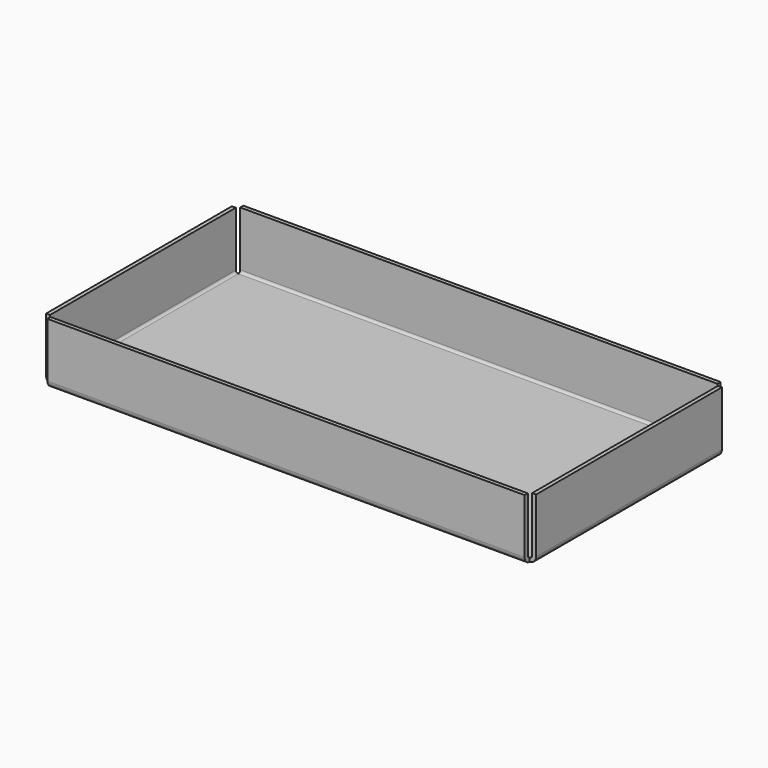
from build123d import *

# Parameters (mm, degrees)
F0_W     = 152.4
F0_H     = 76.2
F1_DEPTH = 19.05
F2_T     = -1.21412
F3_W     = 1.9790156
F3_H     = 1.9790156
F4_DEPTH = 19.051
F5_R     = 0.7648956
F6_R     = 1.9790156


with BuildPart() as f1:
    # F0 (on Top) → F1 (new body)
    with BuildSketch(Plane.XY):
        Rectangle(F0_W, F0_H)
    extrude(amount=F1_DEPTH)

    # F2
    f2_openings = [f1.faces().sort_by_distance(p)[0] for p in [
        (0, 0, 19.05),
    ]]
    offset(amount=F2_T, openings=f2_openings)

    # F3 (on face) → F4 (cut, through all)
    with BuildSketch(Plane.XY.offset(19.05)):
        with Locations((-75.2104922, -37.1104922)):
            Rectangle(F3_W, F3_H)
        with Locations((-75.2104922, 37.1104922)):
            Rectangle(F3_W, F3_H)
        with Locations((75.2104922, -37.1104922)):
            Rectangle(F3_W, F3_H)
        with Locations((75.2104922, 37.1104922)):
            Rectangle(F3_W, F3_H)
    extrude(amount=-F4_DEPTH, mode=Mode.SUBTRACT)

    # F5
    f5_edges = [f1.edges().sort_by_distance(p)[0] for p in [
        (-74.98588, 0, 1.21412),
        (0, 36.88588, 1.21412),
        (0, -36.88588, 1.21412),
        (74.98588, 0, 1.21412),
    ]]
    fillet(f5_edges, radius=F5_R)

    # F6
    f6_edges = [f1.edges().sort_by_distance(p)[0] for p in [
        (0, 38.1, 0),
        (-76.2, 0, 0),
        (76.2, 0, 0),
        (0, -38.1, 0),
    ]]
    fillet(f6_edges, radius=F6_R)


solid = f1.part
